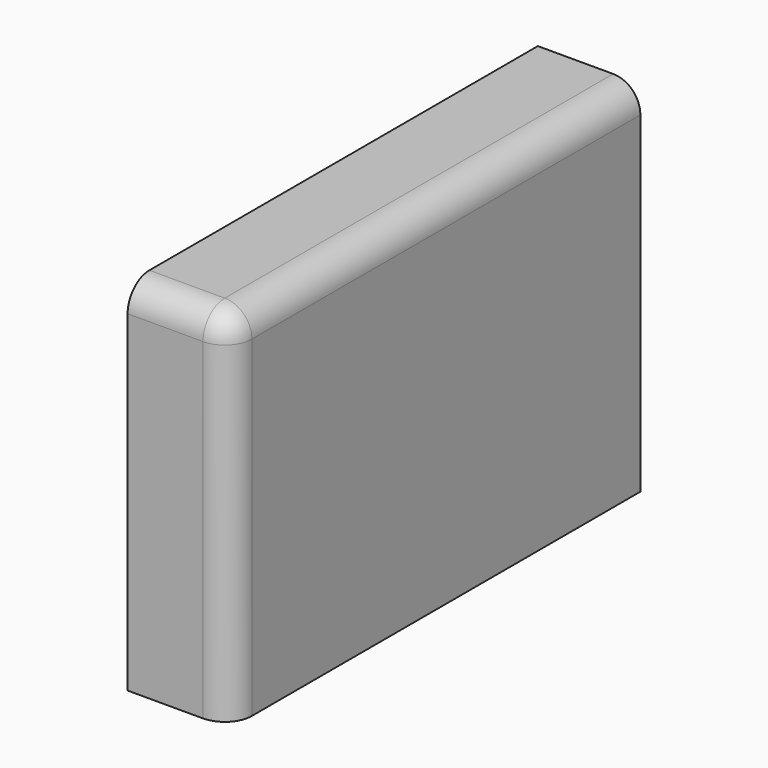
from build123d import *

# Parameters (mm, degrees)
F0_W     = 1000
F0_H     = 700
F1_DEPTH = 200
F2_W     = 997
F2_H     = 697
F3_DEPTH = 197
F4_R     = 50
F5_R     = 50
F6_R     = 53
F7_R     = 53


with BuildPart() as f1:
    # F0 (on Right) → F1 (new body)
    with BuildSketch(Plane.YZ):
        Rectangle(F0_W, F0_H)
    extrude(amount=F1_DEPTH)

    # F2 (on face) → F3 (cut)
    with BuildSketch(Plane(origin=(0, 0, 0), x_dir=(0, -1, 0), z_dir=(-1, 0, 0))):
        with Locations((-1.5, -1.5)):
            Rectangle(F2_W, F2_H)
    extrude(amount=-F3_DEPTH, mode=Mode.SUBTRACT)

    # F4
    f4_edges = [f1.edges().sort_by_distance(p)[0] for p in [
        (197, 1.5, 347),
    ]]
    fillet(f4_edges, radius=F4_R)

    # F5
    f5_edges = [f1.edges().sort_by_distance(p)[0] for p in [
        (197, -497, -26.5),
    ]]
    fillet(f5_edges, radius=F5_R)

    # F6
    f6_edges = [f1.edges().sort_by_distance(p)[0] for p in [
        (200, 0, 350),
    ]]
    fillet(f6_edges, radius=F6_R)

    # F7
    f7_edges = [f1.edges().sort_by_distance(p)[0] for p in [
        (200, -500, -26.5),
    ]]
    fillet(f7_edges, radius=F7_R)


solid = f1.part
